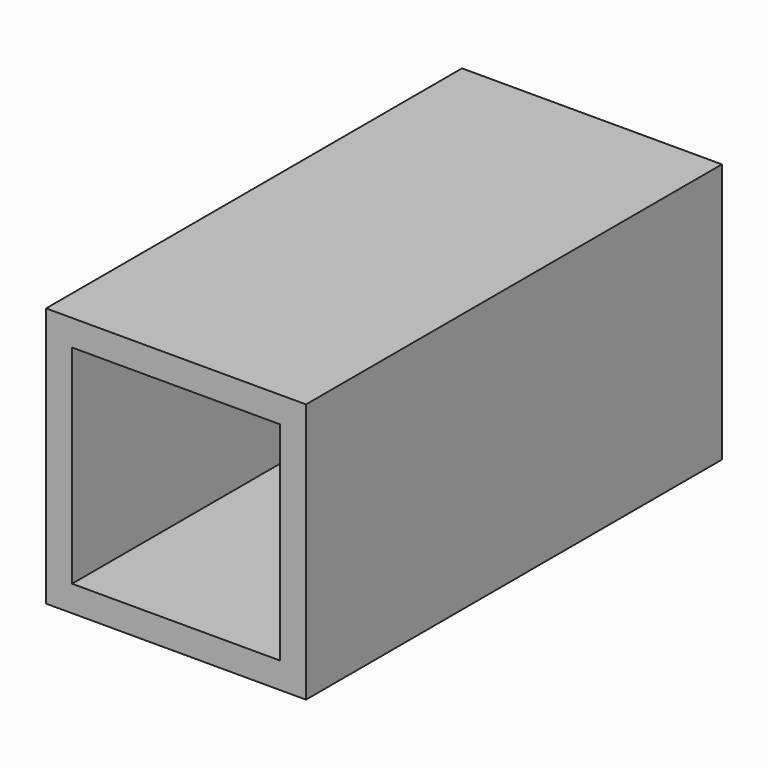
from build123d import *

# Parameters (mm, degrees)
F0_W     = 63.5
F0_H     = 63.5
F1_DEPTH = 127
F2_W     = 50.8
F2_H     = 50.8
F3_DEPTH = 127


with BuildPart() as f1:
    # F0 (on Front) → F1 (new body)
    with BuildSketch(Plane.XZ):
        Rectangle(F0_W, F0_H)
    extrude(amount=F1_DEPTH)

    # F2 (on face) → F3 (cut)
    with BuildSketch(Plane(origin=(0, 0, 0), x_dir=(-1, 0, 0), z_dir=(0, 1, 0))):
        Rectangle(F2_W, F2_H)
    extrude(amount=-F3_DEPTH, mode=Mode.SUBTRACT)


solid = f1.part
